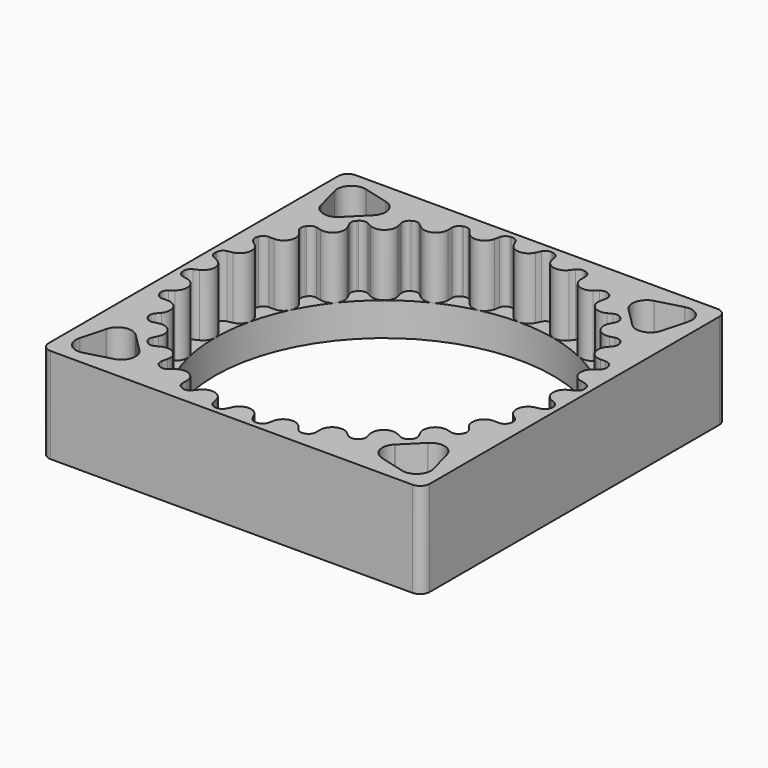
from build123d import *

# Parameters (mm, degrees)
SKETCH_W           = 40
SKETCH_H           = 40
PAD_DEPTH          = 10
POCKET_DEPTH       = 10.001
SKETCH006_R        = 19.5
POCKET001_DEPTH    = 10.001
PAD001_DEPTH       = 6.5
POLARPATTERN_COUNT = 28
SKETCH008_R        = 19.5
SKETCH008_R_2      = 17.75
PAD002_DEPTH       = 3.5
FILLET_R           = 1


with BuildPart() as part:
    # Sketch → Pad (new body)
    with BuildSketch(Plane.XY):
        Rectangle(SKETCH_W, SKETCH_H)
    extrude(amount=PAD_DEPTH)

    # Sketch004 (on Face6 of Pad) → Pocket (cut, through all)
    with BuildSketch(Plane.XY.offset(10)):
        with BuildLine():
            Line((13.434683, 15.312625), (15.312625, 13.434683))
            Line((15.312625, 13.434683), (15.35345, 13.393859))
            ThreePointArc((15.35345, 13.393859), (16.802339, 13.00563), (17.862999, 14.06629))
            Line((17.877942, 14.122058), (17.862999, 14.06629))
            Line((17.877942, 14.122058), (18.565317, 16.687375))
            Line((18.565317, 16.687375), (18.58026, 16.743142))
            ThreePointArc((18.58026, 16.743142), (18.192031, 18.192031), (16.743142, 18.58026))
            Line((16.687375, 18.565317), (16.743142, 18.58026))
            Line((16.687375, 18.565317), (14.122058, 17.877942))
            Line((14.122058, 17.877942), (14.06629, 17.862999))
            ThreePointArc((14.06629, 17.862999), (13.00563, 16.802339), (13.393859, 15.35345))
            Line((13.434683, 15.312625), (13.393859, 15.35345))
        make_face()
        with BuildLine():
            Line((14.122058, -17.877942), (16.687375, -18.565317))
            Line((16.687375, -18.565317), (16.743142, -18.58026))
            ThreePointArc((16.743142, -18.58026), (18.192031, -18.192031), (18.58026, -16.743142))
            Line((18.565317, -16.687375), (18.58026, -16.743142))
            Line((18.565317, -16.687375), (17.877942, -14.122058))
            Line((17.877942, -14.122058), (17.862999, -14.06629))
            ThreePointArc((17.862999, -14.06629), (16.802339, -13.00563), (15.35345, -13.393859))
            Line((15.312625, -13.434683), (15.35345, -13.393859))
            Line((15.312625, -13.434683), (13.434683, -15.312625))
            Line((13.434683, -15.312625), (13.393859, -15.35345))
            ThreePointArc((13.393859, -15.35345), (13.00563, -16.802339), (14.06629, -17.862999))
            Line((14.122058, -17.877942), (14.06629, -17.862999))
        make_face()
        with BuildLine():
            Line((-14.122058, 17.877942), (-16.687375, 18.565317))
            Line((-16.687375, 18.565317), (-16.743142, 18.58026))
            ThreePointArc((-16.743142, 18.58026), (-18.192031, 18.192031), (-18.58026, 16.743142))
            Line((-18.565317, 16.687375), (-18.58026, 16.743142))
            Line((-18.565317, 16.687375), (-17.877942, 14.122058))
            Line((-17.877942, 14.122058), (-17.862999, 14.06629))
            ThreePointArc((-17.862999, 14.06629), (-16.802339, 13.00563), (-15.35345, 13.393859))
            Line((-15.312625, 13.434683), (-15.35345, 13.393859))
            Line((-15.312625, 13.434683), (-13.434683, 15.312625))
            Line((-13.434683, 15.312625), (-13.393859, 15.35345))
            ThreePointArc((-13.393859, 15.35345), (-13.00563, 16.802339), (-14.06629, 17.862999))
            Line((-14.122058, 17.877942), (-14.06629, 17.862999))
        make_face()
        with BuildLine():
            Line((-13.434683, -15.312625), (-15.312625, -13.434683))
            Line((-15.312625, -13.434683), (-15.35345, -13.393859))
            ThreePointArc((-15.35345, -13.393859), (-16.802339, -13.00563), (-17.862999, -14.06629))
            Line((-17.877942, -14.122058), (-17.862999, -14.06629))
            Line((-17.877942, -14.122058), (-18.565317, -16.687375))
            Line((-18.565317, -16.687375), (-18.58026, -16.743142))
            ThreePointArc((-18.58026, -16.743142), (-18.192031, -18.192031), (-16.743142, -18.58026))
            Line((-16.687375, -18.565317), (-16.743142, -18.58026))
            Line((-16.687375, -18.565317), (-14.122058, -17.877942))
            Line((-14.122058, -17.877942), (-14.06629, -17.862999))
            ThreePointArc((-14.06629, -17.862999), (-13.00563, -16.802339), (-13.393859, -15.35345))
            Line((-13.434683, -15.312625), (-13.393859, -15.35345))
        make_face()
    extrude(amount=-POCKET_DEPTH, mode=Mode.SUBTRACT)

    # Sketch006 (on Face5 of Pocket) → Pocket001 (cut, through all)
    with BuildSketch(Plane.XY.offset(10)):
        Circle(SKETCH006_R)
    extrude(amount=-POCKET001_DEPTH, mode=Mode.SUBTRACT)

    # Sketch007 (on Face5 of Pocket001) → Pad001 (join)
    with BuildSketch(Plane.XY.offset(10)):
        with BuildLine():
            ThreePointArc((-1.132885, 18.471727), (0, 17.75), (1.132885, 18.471727))
            Line((1.132885, 18.471727), (1.358629, 18.955837))
            ThreePointArc((2.119894, 19.384428), (1.670416, 19.292415), (1.358629, 18.955837))
            ThreePointArc((2.119894, 19.384428), (0, 19.5), (-2.119894, 19.384428))
            ThreePointArc((-1.358629, 18.955837), (-1.670416, 19.292415), (-2.119894, 19.384428))
            Line((-1.358629, 18.955837), (-1.132885, 18.471727))
        make_face()
    pad001 = extrude(amount=-PAD001_DEPTH)

    # PolarPattern: Pad001 ×28 about axis
    polarpattern_axis = Axis((0, 0, 10), (0, 0, 1))
    for i in range(1, POLARPATTERN_COUNT):
        add(pad001.rotate(polarpattern_axis, i * 360 / POLARPATTERN_COUNT))

    # Sketch008 (on Face4 of PolarPattern) → Pad002 (join)
    with BuildSketch(Plane(origin=(0, 0, 0), x_dir=(1, 0, 0), z_dir=(0, 0, -1))):
        Circle(SKETCH008_R)
        Circle(SKETCH008_R_2, mode=Mode.SUBTRACT)
    extrude(amount=-PAD002_DEPTH)

    # Fillet
    fillet_edges = [part.edges().sort_by_distance(p)[0] for p in [
        (-20, 20, 5),
        (-20, -20, 5),
        (20, 20, 5),
        (20, -20, 5),
    ]]
    fillet(fillet_edges, radius=FILLET_R)


solid = part.part
